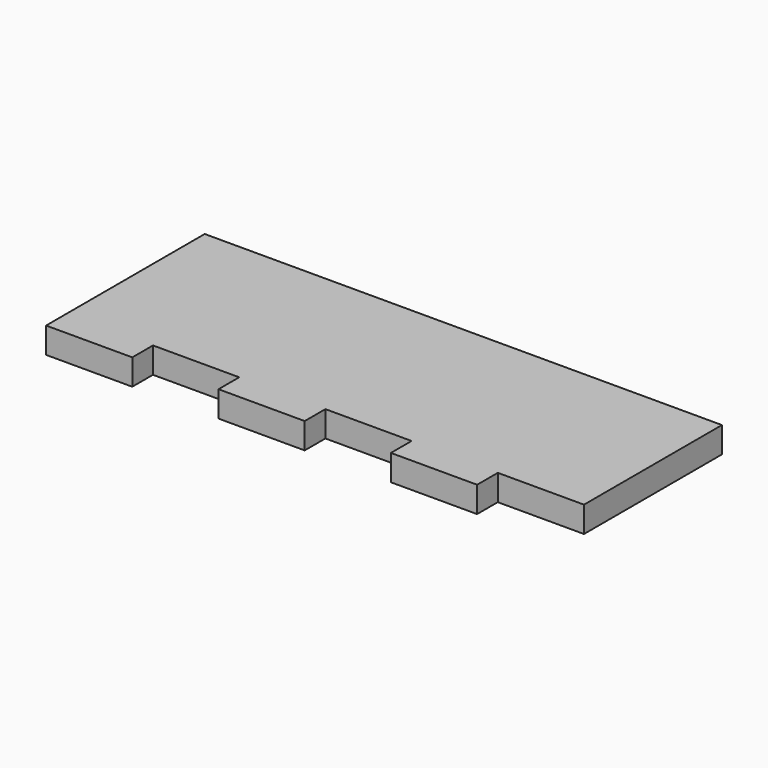
from build123d import *

# Parameters (mm, degrees)
F1_DEPTH = 1.5


with BuildPart() as f1:
    # F0 (on Top) → F1 (new body, symmetric)
    with BuildSketch(Plane.XY):
        Polygon((30, 10), (-30, 10), (-30, -10), (-30, -13), (-20, -13), (-20, -10), (-10, -10), (-10, -13), (0, -13), (0, -10), (10, -10), (10, -13), (20, -13), (20, -10), (30, -10), align=None)
    extrude(amount=F1_DEPTH, both=True)


solid = f1.part
